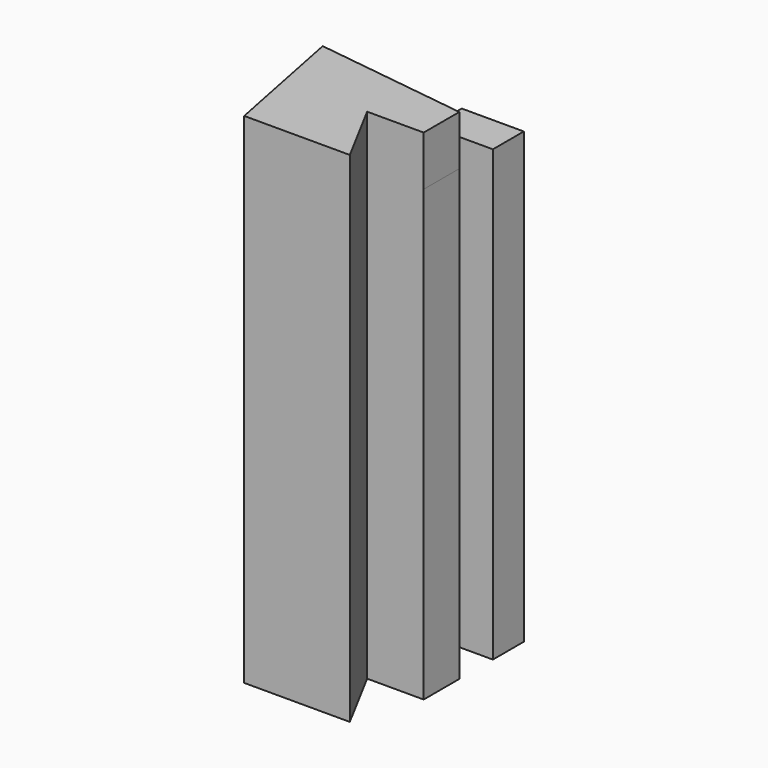
from build123d import *

# Parameters (mm, degrees)
F0_W     = 31.59938
F0_H     = 19.668452
F1_DEPTH = 228.6
F2_DEPTH = 25.4


with BuildPart() as f1:
    # F0 (on Top) → F1 (new body)
    with BuildSketch(Plane.XY):
        Polygon((-26.357859, -33.373244), (27.373895, -33.373244), (9.48976, 0), (38.27583, 0), (38.27583, 22.665277), (-39.54488, 33.04413), align=None)
        with Locations((22.47614, 53.86268)):
            Rectangle(F0_W, F0_H)
    extrude(amount=F1_DEPTH)

    # F1_face (on face) → F2 (join)
    with BuildSketch(Plane(origin=(-3.056646, 0.412744, 228.6), x_dir=(1, 0, 0), z_dir=(0, 0, 1))):
        Polygon((-23.301213, -33.785988), (30.430541, -33.785988), (12.546406, -0.412744), (41.332477, -0.412744), (41.332477, 22.252533), (-36.488234, 32.631385), align=None)
    extrude(amount=F2_DEPTH)


solid = f1.part
